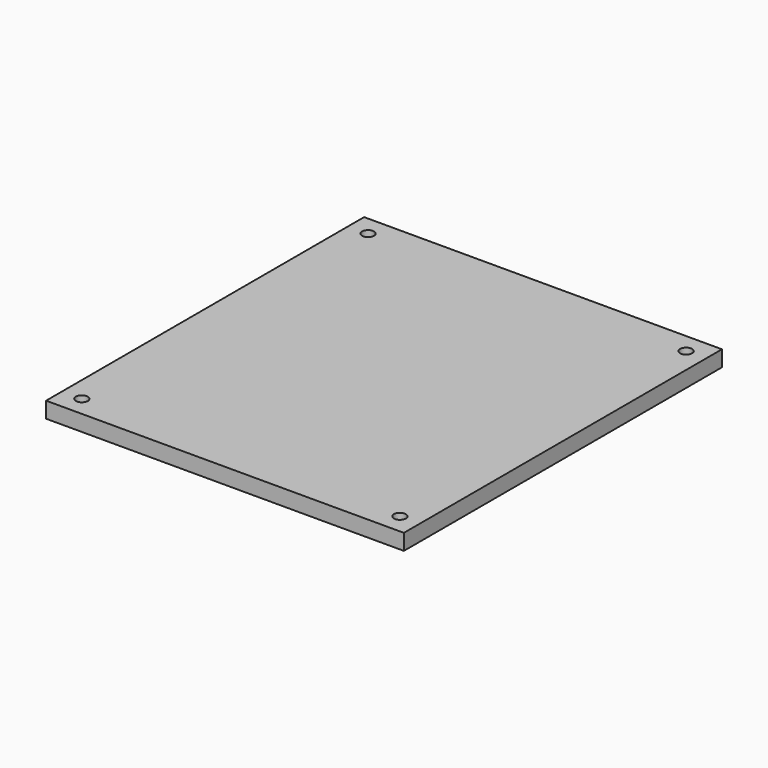
from build123d import *

# Parameters (mm, degrees)
SKETCH_W     = 90
SKETCH_H     = 100
PAD_DEPTH    = 4
SKETCH001_R  = 1.5
POCKET_DEPTH = 4


with BuildPart() as part:
    # Sketch → Pad (new body)
    with BuildSketch(Plane.XY):
        Rectangle(SKETCH_W, SKETCH_H)
    extrude(amount=PAD_DEPTH)

    # Sketch001 (on Face6 of Pad) → Pocket (cut)
    with BuildSketch(Plane.XY.offset(4)):
        with Locations((-40, 45)):
            Circle(SKETCH001_R)
        with Locations((40, 45)):
            Circle(SKETCH001_R)
        with Locations((-40, -45)):
            Circle(SKETCH001_R)
        with Locations((40, -45)):
            Circle(SKETCH001_R)
    extrude(amount=-POCKET_DEPTH, mode=Mode.SUBTRACT)


solid = part.part
